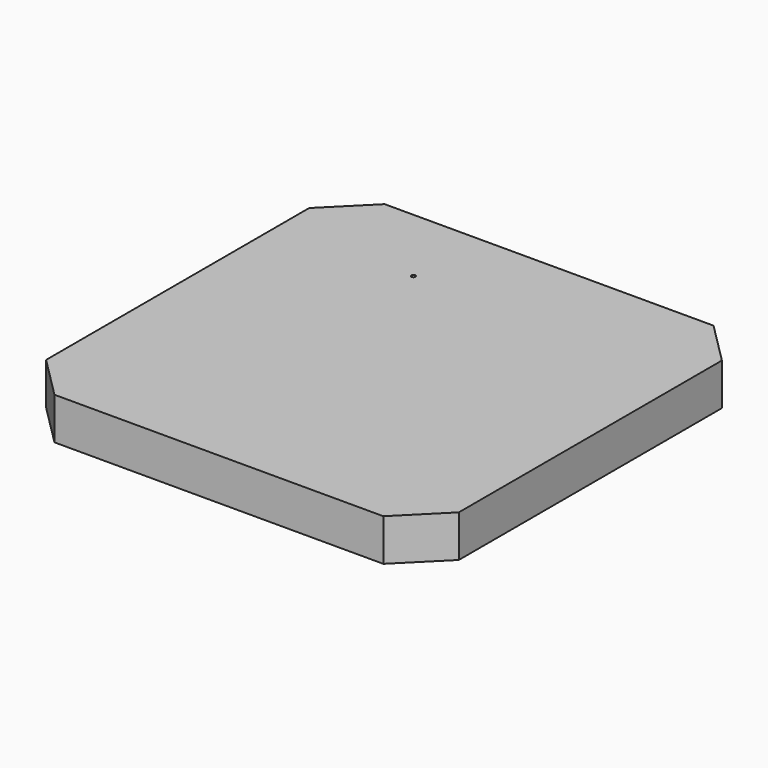
from build123d import *

# Parameters (mm, degrees)
F0_W     = 500
F0_H     = 500
F1_DEPTH = 50.8
F3_D     = 5.1054
F4_SIZE  = 50.8


with BuildPart() as f1:
    # F0 (on Top) → F1 (new body)
    with BuildSketch(Plane.XY):
        Rectangle(F0_W, F0_H)
    extrude(amount=F1_DEPTH)

    # F3 (through all)
    with Locations(Plane.XY.offset(50.8)):
        with Locations((-85.9357491136, 151.999682188)):
            Hole(F3_D / 2)

    # F4
    f4_edges = [f1.edges().sort_by_distance(p)[0] for p in [
        (-250, 250, 25.4),
        (-250, -250, 25.4),
        (250, -250, 25.4),
        (250, 250, 25.4),
    ]]
    chamfer(f4_edges, length=F4_SIZE)


solid = f1.part
